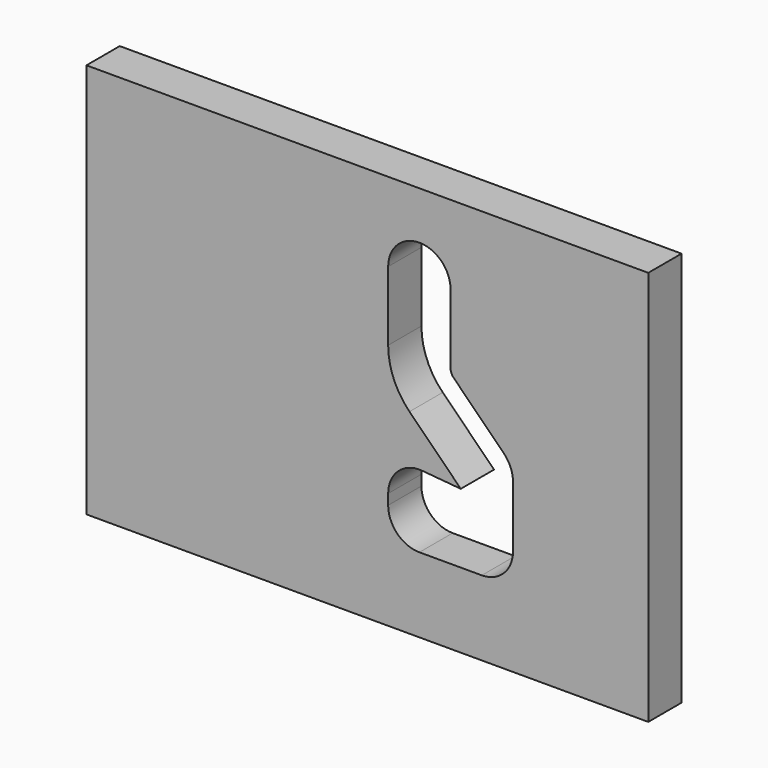
from build123d import *

# Parameters (mm, degrees)
F0_W     = 27
F0_H     = 19
F1_DEPTH = 2
F2_R     = 3.5
F3_R     = 0.5


with BuildPart() as f1:
    # F0 (on Front) → F1 (new body)
    with BuildSketch(Plane.XZ):
        with Locations((-46.395146, 6.552132)):
            Rectangle(F0_W, F0_H)
        with BuildLine():
            ThreePointArc((-45.395146, 12.252132), (-43.895146, 13.752132), (-42.395146, 12.252132))
            Line((-42.395146, 12.252132), (-42.395146, 8.716104))
            Line((-42.395146, 8.716104), (-39.834486, 6.155444))
            ThreePointArc((-39.834486, 6.155444), (-39.509326, 5.668809), (-39.395146, 5.094783))
            Line((-39.395146, 5.094783), (-39.395146, 2.152132))
            ThreePointArc((-39.395146, 2.152132), (-39.834486, 1.091472), (-40.895146, 0.652132))
            Line((-40.895146, 0.652132), (-43.895146, 0.652132))
            ThreePointArc((-43.895146, 0.652132), (-44.955806, 1.091472), (-45.395146, 2.152132))
            Line((-45.395146, 2.152132), (-45.395146, 2.652132))
            ThreePointArc((-45.395146, 2.652132), (-44.908531, 3.758048), (-43.764412, 4.146424))
            Line((-43.764412, 4.146424), (-41.90547, 3.983787))
            Line((-41.90547, 3.983787), (-41.955806, 4.034123))
            Line((-41.955806, 4.034123), (-45.395146, 7.473463))
            Line((-45.395146, 7.473463), (-45.395146, 12.252132))
        make_face(mode=Mode.SUBTRACT)
    extrude(amount=F1_DEPTH)

    # F2
    f2_edges = [f1.edges().sort_by_distance(p)[0] for p in [
        (-45.395146, -1, 7.473463),
    ]]
    fillet(f2_edges, radius=F2_R)

    # F3
    f3_edges = [f1.edges().sort_by_distance(p)[0] for p in [
        (-42.395146, -1, 8.716104),
    ]]
    fillet(f3_edges, radius=F3_R)


solid = f1.part
